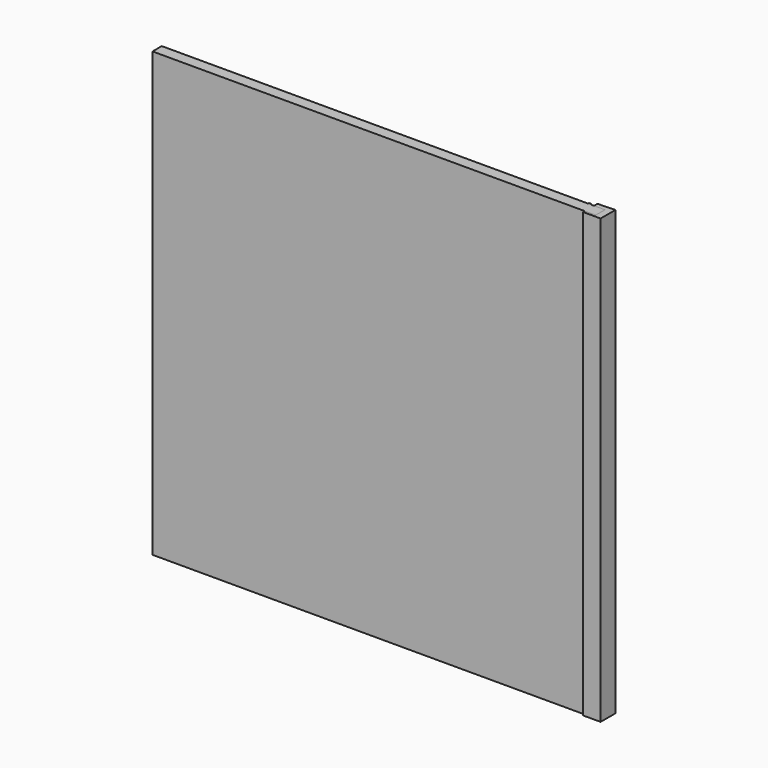
from build123d import *

# Parameters (mm, degrees)
F0_W      = 46.604457
F0_H      = 66.222696
F0_R      = 10.88261
F1_DEPTH  = 2540
F1_FACE_W = 66.222696
F1_FACE_H = 2540
F2_DEPTH  = 2540


with BuildPart() as f1:
    # F0 (on Top) → F1 (new body)
    with BuildSketch(Plane.XY):
        Polygon((67.435063, 59.342843), (-32.226857, 55.083789), (-32.226857, -47.417503), (67.435063, -47.417503), align=None)
        with Locations((6.700696, -2.445211)):
            Rectangle(F0_W, F0_H, mode=Mode.SUBTRACT)
        with Locations((-58.349073, 27.541891)):
            Circle(F0_R)
    extrude(amount=F1_DEPTH)


with BuildPart() as f2:
    # F1_face (on face) → F2 (new body)
    with BuildSketch(Plane(origin=(30.002924, -2.445211, 1270), x_dir=(0, -1, 0), z_dir=(-1, 0, 0))):
        Rectangle(F1_FACE_W, F1_FACE_H)
    extrude(amount=F2_DEPTH)


solid = Compound([f1.part, f2.part])
